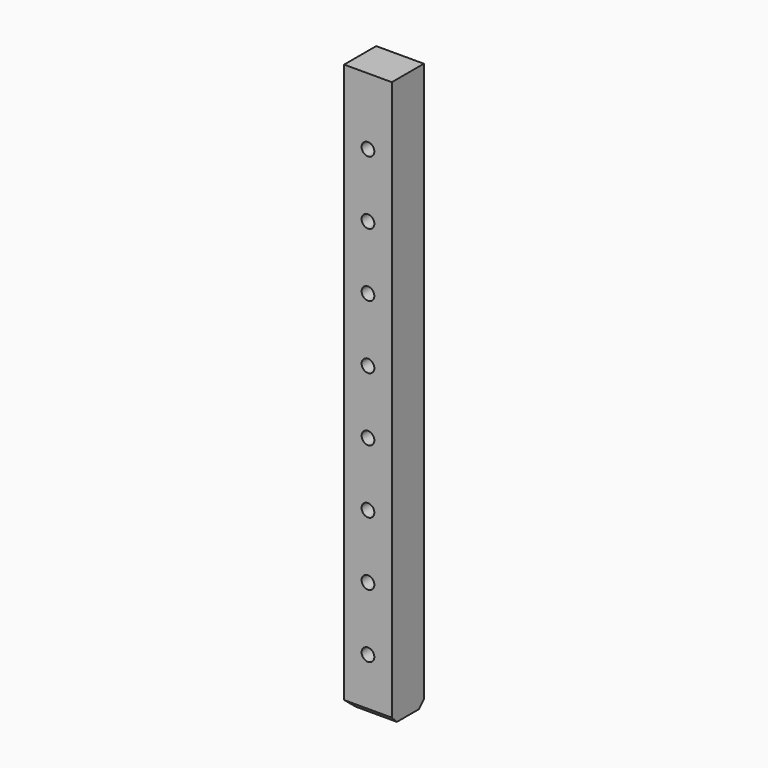
from build123d import *

# Parameters (mm, degrees)
F0_W     = 75
F0_H     = 63
F1_DEPTH = 890
F2_R     = 10
F3_DEPTH = 63.001
F4_SIZE  = 10


with BuildPart() as f1:
    # F0 (on Top) → F1 (new body)
    with BuildSketch(Plane.XY):
        with Locations((0, 1.299331)):
            Rectangle(F0_W, F0_H)
    extrude(amount=F1_DEPTH)

    # F2 (on face) → F3 (cut, through all)
    with BuildSketch(Plane.XZ.offset(30.200669)):
        with Locations((0, 85)):
            Circle(F2_R)
        with Locations((0, 185)):
            Circle(F2_R)
        with Locations((0, 285)):
            Circle(F2_R)
        with Locations((0, 385)):
            Circle(F2_R)
        with Locations((0, 485)):
            Circle(F2_R)
        with Locations((0, 585)):
            Circle(F2_R)
        with Locations((0, 685)):
            Circle(F2_R)
        with Locations((0, 785)):
            Circle(F2_R)
    extrude(amount=-F3_DEPTH, mode=Mode.SUBTRACT)

    # F4
    f4_edges = [f1.edges().sort_by_distance(p)[0] for p in [
        (0, 32.799331, 0),
        (-37.5, 1.299331, 0),
        (0, -30.200669, 0),
    ]]
    chamfer(f4_edges, length=F4_SIZE)


solid = f1.part
